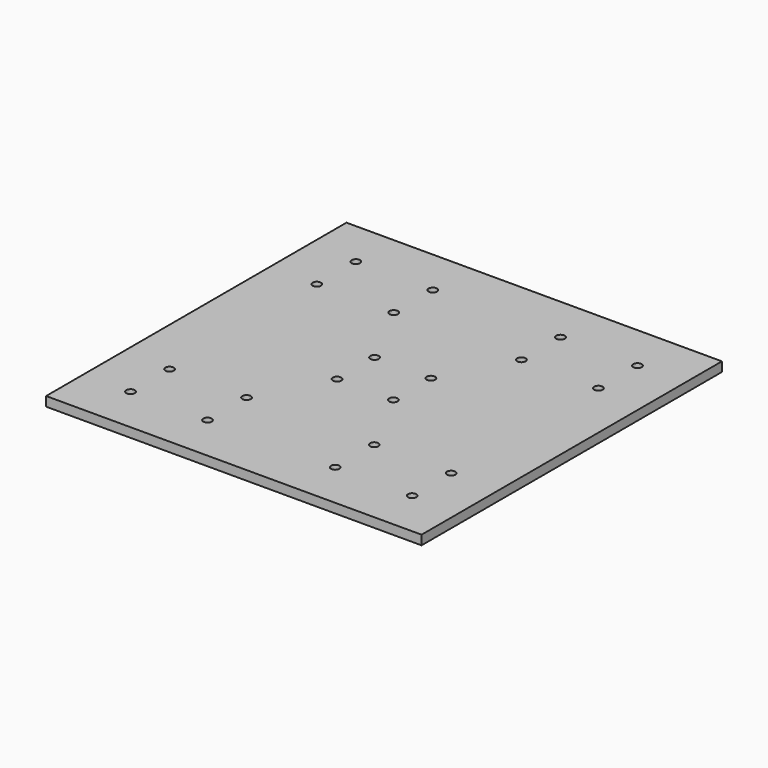
from build123d import *

# Parameters (mm, degrees)
F0_W     = 200
F0_H     = 200
F0_R     = 2.25
F1_DEPTH = 5


with BuildPart() as f1:
    # F0 (on Top) → F1 (new body)
    with BuildSketch(Plane.XY):
        Rectangle(F0_W, F0_H)
        with Locations((-75, -75)):
            Circle(F0_R, mode=Mode.SUBTRACT)
        with Locations((-34, -75)):
            Circle(F0_R, mode=Mode.SUBTRACT)
        with Locations((-75, -49)):
            Circle(F0_R, mode=Mode.SUBTRACT)
        with Locations((-34, -49)):
            Circle(F0_R, mode=Mode.SUBTRACT)
        with Locations((-15, -12.5)):
            Circle(F0_R, mode=Mode.SUBTRACT)
        with Locations((34, -75)):
            Circle(F0_R, mode=Mode.SUBTRACT)
        with Locations((75, -75)):
            Circle(F0_R, mode=Mode.SUBTRACT)
        with Locations((34, -49)):
            Circle(F0_R, mode=Mode.SUBTRACT)
        with Locations((15, -12.5)):
            Circle(F0_R, mode=Mode.SUBTRACT)
        with Locations((75, -49)):
            Circle(F0_R, mode=Mode.SUBTRACT)
        with Locations((-75, 49)):
            Circle(F0_R, mode=Mode.SUBTRACT)
        with Locations((-15, 12.5)):
            Circle(F0_R, mode=Mode.SUBTRACT)
        with Locations((-34, 49)):
            Circle(F0_R, mode=Mode.SUBTRACT)
        with Locations((-75, 75)):
            Circle(F0_R, mode=Mode.SUBTRACT)
        with Locations((-34, 75)):
            Circle(F0_R, mode=Mode.SUBTRACT)
        with Locations((15, 12.5)):
            Circle(F0_R, mode=Mode.SUBTRACT)
        with Locations((34, 49)):
            Circle(F0_R, mode=Mode.SUBTRACT)
        with Locations((75, 49)):
            Circle(F0_R, mode=Mode.SUBTRACT)
        with Locations((34, 75)):
            Circle(F0_R, mode=Mode.SUBTRACT)
        with Locations((75, 75)):
            Circle(F0_R, mode=Mode.SUBTRACT)
    extrude(amount=F1_DEPTH)


solid = f1.part
